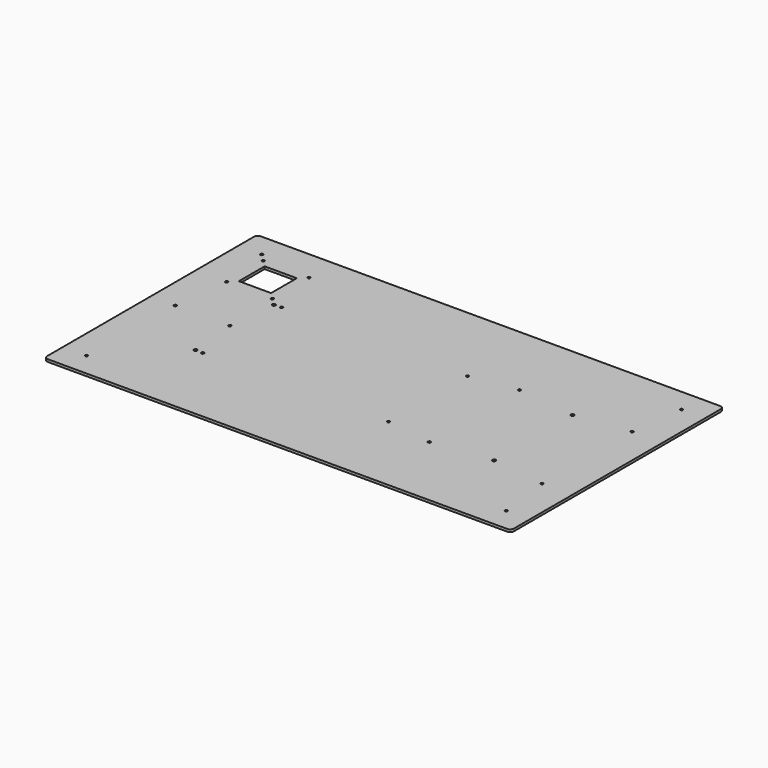
from build123d import *

# Parameters (mm, degrees)
F0_W     = 598.5927433312
F0_H     = 341.3125
F0_R     = 2.15265
F0_R_2   = 1.7272
F0_W_2   = 41.275
F0_H_2   = 41.275
F1_DEPTH = 3.175
F3_R     = 4.7625
F2_R     = 1.7272
F4_DEPTH = 3.175
F5_R     = 1.7272
F6_DEPTH = 3.175


with BuildPart() as f1:
    # F0 (on Top) → F1 (new body)
    with BuildSketch(Plane.XY):
        with Locations((62.7588716656, 0)):
            Rectangle(F0_W, F0_H)
        with Locations((-128.6793928788, -62.7981428788)):
            Circle(F0_R, mode=Mode.SUBTRACT)
        with Locations((-119.1677433312, -63.3022737)):
            Circle(F0_R_2, mode=Mode.SUBTRACT)
        with Locations((119.1677433312, -63.3022737)):
            Circle(F0_R_2, mode=Mode.SUBTRACT)
        with Locations((178.6989933312, -72.23125)):
            Circle(F0_R_2, mode=Mode.SUBTRACT)
        with Locations((254.19713621, -62.7981428788)):
            Circle(F0_R, mode=Mode.SUBTRACT)
        with Locations((323.1614933312, -72.23125)):
            Circle(F0_R_2, mode=Mode.SUBTRACT)
        with Locations((-196.85, 72.23125)):
            Circle(F0_R_2, mode=Mode.SUBTRACT)
        with Locations((-128.6793928788, 62.7981428788)):
            Circle(F0_R, mode=Mode.SUBTRACT)
        with Locations((-119.1677433312, 63.3022737)):
            Circle(F0_R_2, mode=Mode.SUBTRACT)
        with Locations((-138.1125, 72.23125)):
            Circle(F0_R_2, mode=Mode.SUBTRACT)
        with Locations((-167.48125, 101.6)):
            Rectangle(F0_W_2, F0_H_2, mode=Mode.SUBTRACT)
        with Locations((-196.85, 130.96875)):
            Circle(F0_R_2, mode=Mode.SUBTRACT)
        with Locations((-138.1125, 130.96875)):
            Circle(F0_R_2, mode=Mode.SUBTRACT)
        with Locations((119.1677433312, 63.3022737)):
            Circle(F0_R_2, mode=Mode.SUBTRACT)
        with Locations((178.6989933312, 72.23125)):
            Circle(F0_R_2, mode=Mode.SUBTRACT)
        with Locations((254.19713621, 62.7981428788)):
            Circle(F0_R, mode=Mode.SUBTRACT)
        with Locations((323.1614933312, 72.23125)):
            Circle(F0_R_2, mode=Mode.SUBTRACT)
    extrude(amount=F1_DEPTH)

    # F3
    f3_edges = [f1.edges().sort_by_distance(p)[0] for p in [
        (362.055243, -170.65625, 1.5875),
        (-236.5375, -170.65625, 1.5875),
        (-236.5375, 170.65625, 1.5875),
        (362.055243, 170.65625, 1.5875),
    ]]
    fillet(f3_edges, radius=F3_R)

    # F2 (on face) → F4 (cut, through all)
    with BuildSketch(Plane.XY.offset(3.175)):
        with Locations((-206.375, -140.49375)):
            Circle(F2_R)
        with Locations((-206.375, 140.49375)):
            Circle(F2_R)
        with Locations((331.8927433312, 140.49375)):
            Circle(F2_R)
        with Locations((331.8927433312, -140.49375)):
            Circle(F2_R)
    extrude(amount=-F4_DEPTH, mode=Mode.SUBTRACT)

    # F5 (on face) → F6 (cut, through all)
    with BuildSketch(Plane.XY.offset(3.175)):
        with Locations((-134.9374857312, 0)):
            Circle(F5_R)
        with Locations((-204.7875, 0)):
            Circle(F5_R)
    extrude(amount=-F6_DEPTH, mode=Mode.SUBTRACT)


solid = f1.part
